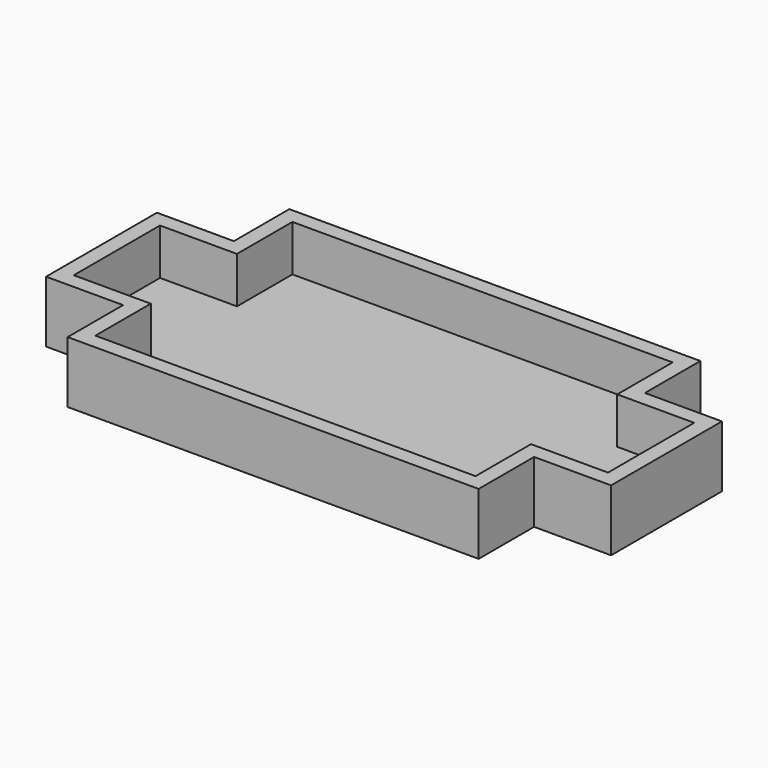
from build123d import *

# Parameters (mm, degrees)
F1_DEPTH = 4
F0_W     = 5
F0_H     = 5
F2_DEPTH = 1


with BuildPart() as f1:
    # F0 (on Top) → F1 (new body)
    with BuildSketch(Plane.XY):
        Polygon((-2, 16), (-2, 11.5), (-7, 11.5), (-7, 2.5), (-2, 2.5), (-2, -2), (24.7, -2), (24.7, 2.5), (29.7, 2.5), (29.7, 11.5), (24.7, 11.5), (24.7, 16), align=None)
        Polygon((-6, 10.5), (-1, 10.5), (-1, 15), (23.7, 15), (23.7, 10.5), (28.7, 10.5), (28.7, 3.5), (23.7, 3.5), (23.7, -1), (-1, -1), (-1, 3.5), (-6, 3.5), align=None, mode=Mode.SUBTRACT)
    extrude(amount=F1_DEPTH)

    # F0 (on Top) → F2 (join)
    with BuildSketch(Plane.XY):
        Polygon((-1, 15), (-1, 10.5), (-6, 10.5), (-6, 3.5), (-1, 3.5), (-1, -1), (23.7, -1), (23.7, 3.5), (28.7, 3.5), (28.7, 10.5), (23.7, 10.5), (23.7, 15), align=None)
        Polygon((22.7, 0), (0, 0), (0, 4.5), (-5, 4.5), (-5, 9.5), (0, 9.5), (0, 14), (22.7, 14), (22.7, 9.5), (27.7, 9.5), (27.7, 4.5), (22.7, 4.5), align=None, mode=Mode.SUBTRACT)
        Polygon((0, 4.5), (0, 0), (22.7, 0), (22.7, 4.5), (22.7, 9.5), (22.7, 14), (0, 14), (0, 9.5), align=None)
        with Locations((-2.5, 7)):
            Rectangle(F0_W, F0_H)
        with Locations((25.2, 7)):
            Rectangle(F0_W, F0_H)
    extrude(amount=F2_DEPTH)


solid = f1.part
